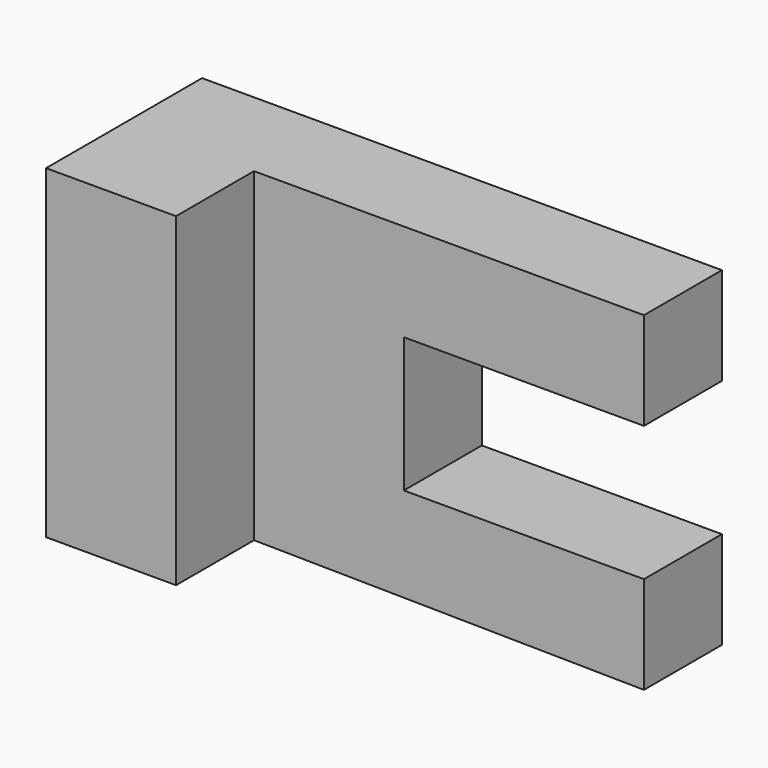
from build123d import *

# Parameters (mm, degrees)
F0_W     = 25.4
F0_H     = 63.5
F1_DEPTH = 19.05
F2_W     = 25.4
F2_H     = 63.5
F3_DEPTH = 19.05


with BuildPart() as f1:
    # F0 (on Front) → F1 (new body)
    with BuildSketch(Plane.XZ):
        with Locations((-49.723725, 13.668647)):
            Rectangle(F0_W, F0_H)
        Polygon((39.176275, 45.418647), (-37.023725, 45.418647), (-37.023725, -18.081353), (39.176275, -19.05), (39.176275, 0), (-7.749152, 0), (-7.749152, 26.368647), (39.176275, 26.368647), align=None)
    extrude(amount=F1_DEPTH)

    # F2 (on face) → F3 (join)
    with BuildSketch(Plane.XZ.offset(19.05)):
        with Locations((-49.723725, 13.668647)):
            Rectangle(F2_W, F2_H)
    extrude(amount=F3_DEPTH)


solid = f1.part
